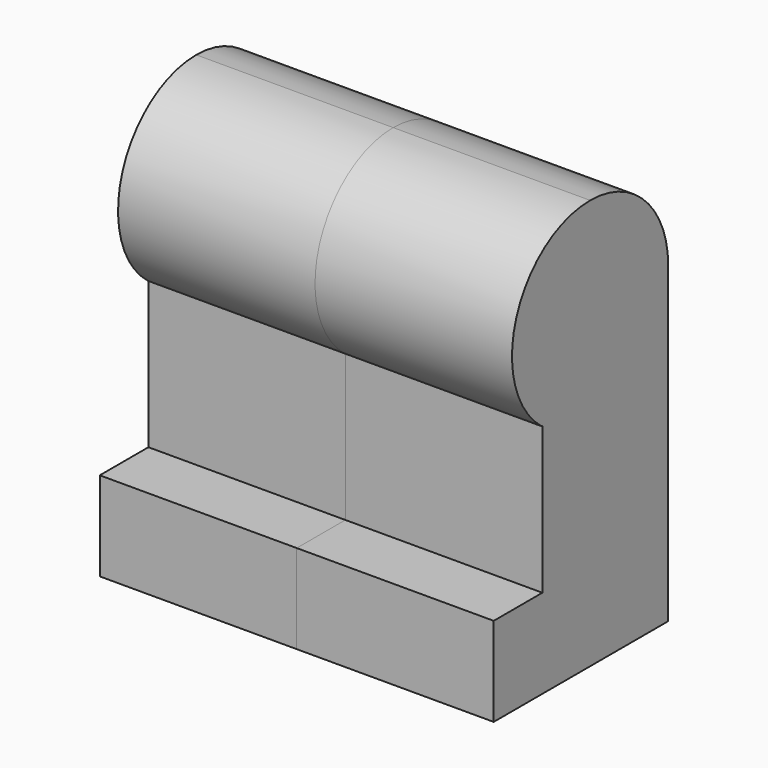
from build123d import *

# Parameters (mm, degrees)
F1_DEPTH = 7.06
F2_W     = 4.81
F2_H     = 4.9
F3_DEPTH = 2.15
F4_R     = 2.44
F5_DEPTH = 1.46
F7_DEPTH = 11.8
F8_R     = 1.25
F9_DEPTH = 1.25


with BuildPart() as f1:
    # F0 (on Right) → F1 (new body)
    with BuildSketch(Plane.YZ):
        with BuildLine():
            ThreePointArc((3.91, 3.85), (2.884874, 6.324874), (0.41, 7.35))
            ThreePointArc((0.41, 7.35), (-2.894542, 5.003256), (-1.767705, 1.11))
            Line((-1.767705, 1.11), (-1.73, 1.11))
            Line((-1.73, 1.11), (-1.73, 1.080451))
            ThreePointArc((-1.73, 1.080451), (1.952725, 0.708344), (3.91, 3.85))
        make_face()
        with BuildLine():
            Line((3.91, -7.35), (3.91, 3.85))
            ThreePointArc((3.91, 3.85), (1.952725, 0.708344), (-1.73, 1.080451))
            Line((-1.73, 1.080451), (-1.73, -4.16))
            Line((-1.73, -4.16), (-3.91, -4.16))
            Line((-3.91, -4.16), (-3.91, -7.35))
            Line((-3.91, -7.35), (3.91, -7.35))
        make_face()
    extrude(amount=F1_DEPTH)

    # F2 (on face) → F3 (cut)
    with BuildSketch(Plane(origin=(0, 0, -7.35), x_dir=(1, 0, 0), z_dir=(0, 0, -1))):
        with Locations((3.405, 0)):
            Rectangle(F2_W, F2_H)
    extrude(amount=-F3_DEPTH, mode=Mode.SUBTRACT)

    # F4 (on face) → F5 (cut)
    with BuildSketch(Plane(origin=(0, 3.91, 0), x_dir=(-1, 0, 0), z_dir=(0, 1, 0))):
        with Locations((-3.53, -3.38)):
            Circle(F4_R)
        with BuildLine():
            Line((-1.235507, 3.85), (-5.824493, 3.85))
            ThreePointArc((-5.824493, 3.85), (-3.53, 2.24), (-1.235507, 3.85))
        make_face()
        with BuildLine():
            ThreePointArc((-1.235507, 3.85), (-1.126652, 4.258671), (-1.09, 4.68))
            ThreePointArc((-1.09, 4.68), (-3.951329, 7.083348), (-5.824493, 3.85))
            Line((-5.824493, 3.85), (-1.235507, 3.85))
        make_face()
    extrude(amount=-F5_DEPTH, mode=Mode.SUBTRACT)

    # F6 (on face) → F7 (cut)
    with BuildSketch(Plane(origin=(0, 0, -5.2), x_dir=(1, 0, 0), z_dir=(0, 0, -1))):
        Polygon((1, 0.88), (1, -2.45), (1.904823, -2.45), (5.155177, -2.45), (5.81, -2.45), (5.81, 0.88), align=None)
    extrude(amount=-F7_DEPTH, mode=Mode.SUBTRACT)

    # F8 (on face) → F9 (cut)
    with BuildSketch(Plane(origin=(0, 0, 0), x_dir=(0, -1, 0), z_dir=(-1, 0, 0))):
        with Locations((-0.41, 3.85)):
            Circle(F8_R)
    extrude(amount=-F9_DEPTH, mode=Mode.SUBTRACT)


with BuildPart() as f10_1:
    # F10: instance of F1
    add(f1.part.mirror(Plane.YZ))


solid = Compound([f1.part, f10_1.part])
